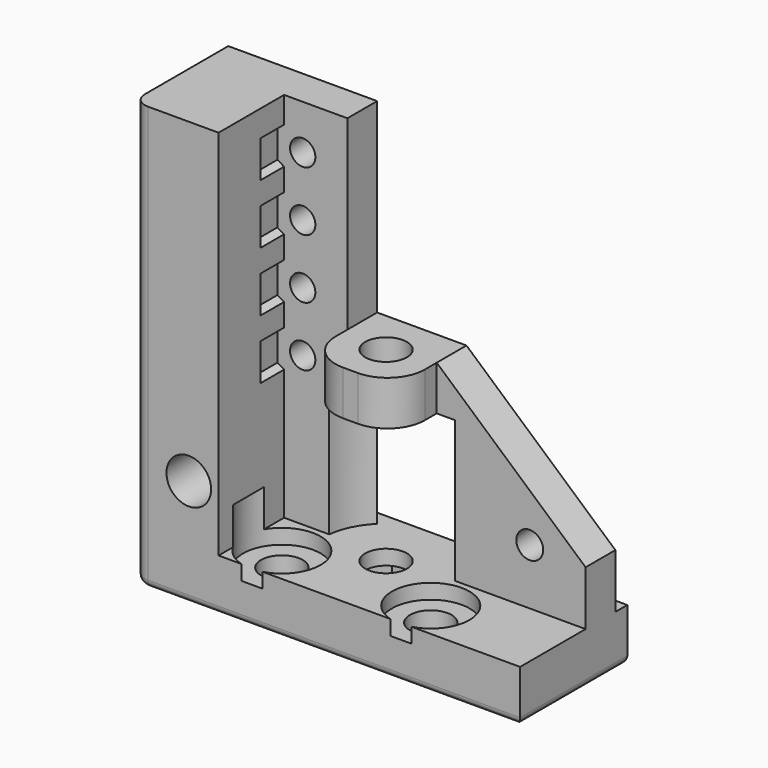
from build123d import *

# Parameters (mm, degrees)
SKETCH_W        = 52
SKETCH_H        = 18
PAD_DEPTH       = 7
SKETCH001_W     = 52
SKETCH001_H     = 5
PAD001_DEPTH    = 50
SKETCH002_R     = 1.8
SKETCH002_W     = 12
SKETCH002_H     = 18
POCKET_DEPTH    = 5
SKETCH003_R     = 2.8
POCKET001_DEPTH = 7.001
SKETCH004_R     = 5.2
POCKET002_DEPTH = 2
SKETCH009_R     = 8.5
POCKET003_DEPTH = 19
POCKET004_DEPTH = 5
SKETCH006_W     = 12
SKETCH006_H     = 6
PAD002_DEPTH    = 7
SKETCH008_R     = 2.8
POCKET005_DEPTH = 32.001
SKETCH012_W     = 11.5
SKETCH012_H     = 50
PAD003_DEPTH    = 11
SKETCH013_R     = 3
POCKET006_DEPTH = 11
SKETCH014_R     = 5.2
POCKET007_DEPTH = 5
SKETCH015_R     = 1.7
POCKET008_DEPTH = 7
SKETCH016_R     = 1.7
SKETCH016_W     = 2.8
SKETCH016_H     = 5.8
POCKET009_DEPTH = 8
FILLET_R        = 5
FILLET001_R     = 2
FILLET002_R     = 1
POCKET010_DEPTH = 4


with BuildPart() as part:
    # Sketch → Pad (new body)
    with BuildSketch(Plane.XY):
        with Locations((0, -7)):
            Rectangle(SKETCH_W, SKETCH_H)
    extrude(amount=PAD_DEPTH)

    # Sketch001 → Pad001 (new body)
    with BuildSketch(Plane.XY.offset(7)):
        with Locations((0, -2.5)):
            Rectangle(SKETCH001_W, SKETCH001_H)
    extrude(amount=PAD001_DEPTH)

    # Sketch002 → Pocket (cut)
    with BuildSketch(Plane.XZ.offset(5)):
        with Locations((-18.5, 14.5)):
            Circle(SKETCH002_R)
        with Locations((18.5, 14.5)):
            Circle(SKETCH002_R)
        with Locations((0, 16)):
            Rectangle(SKETCH002_W, SKETCH002_H)
        Polygon((6, 32), (26.350149, 14), (26.350149, 32), (26.350149, 59.239628), (-6, 59.239628), (-6, 32), align=None)
    extrude(amount=-POCKET_DEPTH, mode=Mode.SUBTRACT)

    # Sketch003 → Pocket001 (cut, through all)
    with BuildSketch(Plane.XY.offset(7)):
        with Locations((0, -6)):
            Circle(SKETCH003_R)
        with Locations((10, -11)):
            Circle(SKETCH003_R)
        with Locations((-10, -11)):
            Circle(SKETCH003_R)
    extrude(amount=-POCKET001_DEPTH, mode=Mode.SUBTRACT)

    # Sketch004 → Pocket002 (cut)
    with BuildSketch(Plane.XY.offset(7)):
        with Locations((-10, -11)):
            Circle(SKETCH004_R)
        with Locations((10, -11)):
            Circle(SKETCH004_R)
    extrude(amount=-POCKET002_DEPTH, mode=Mode.SUBTRACT)

    # Sketch009 → Pocket003 (cut)
    with BuildSketch(Plane.XY.offset(7)):
        with Locations((0, -6)):
            Circle(SKETCH009_R)
    extrude(amount=POCKET003_DEPTH, mode=Mode.SUBTRACT)

    # Sketch005 → Pocket004 (cut)
    with BuildSketch(Plane(origin=(0, 0, 0), x_dir=(1, 0, 0), z_dir=(0, 0, -1))):
        Polygon((4.791368, 5.921741), (2.463458, 10.110317), (-2.32791, 10.188576), (-4.791368, 6.078259), (-2.463458, 1.889683), (2.32791, 1.811424), align=None)
    extrude(amount=-POCKET004_DEPTH, mode=Mode.SUBTRACT)

    # Sketch006 → Pad002 (new body)
    with BuildSketch(Plane.XZ.offset(5)):
        with Locations((0, 29)):
            Rectangle(SKETCH006_W, SKETCH006_H)
    extrude(amount=PAD002_DEPTH)

    # Sketch008 → Pocket005 (cut, through all)
    with BuildSketch(Plane.XY.offset(32)):
        with Locations((0, -6)):
            Circle(SKETCH008_R)
    extrude(amount=-POCKET005_DEPTH, mode=Mode.SUBTRACT)

    # Sketch012 → Pad003 (new body)
    with BuildSketch(Plane.XZ.offset(5)):
        with Locations((-20.25, 32)):
            Rectangle(SKETCH012_W, SKETCH012_H)
    extrude(amount=PAD003_DEPTH)

    # Sketch013 → Pocket006 (cut)
    with BuildSketch(Plane.XZ.offset(16)):
        with Locations((-18.5, 14.5)):
            Circle(SKETCH013_R)
    extrude(amount=-POCKET006_DEPTH, mode=Mode.SUBTRACT)

    # Sketch014 → Pocket007 (cut)
    with BuildSketch(Plane.XY.offset(7)):
        with Locations((-10, -11)):
            Circle(SKETCH014_R)
    extrude(amount=POCKET007_DEPTH, mode=Mode.SUBTRACT)

    # Sketch015 → Pocket008 (cut)
    with BuildSketch(Plane(origin=(-26, 0, 0), x_dir=(0, -1, 0), z_dir=(-1, 0, 0))):
        with Locations((4, 51)):
            Circle(SKETCH015_R)
        with Locations((4, 43)):
            Circle(SKETCH015_R)
        with Locations((4, 35)):
            Circle(SKETCH015_R)
        with Locations((4, 27)):
            Circle(SKETCH015_R)
    extrude(amount=-POCKET008_DEPTH, mode=Mode.SUBTRACT)

    # Sketch016 → Pocket009 (cut)
    with BuildSketch(Plane(origin=(0, 0, 0), x_dir=(-1, 0, 0), z_dir=(0, 1, 0))):
        with Locations((12, 51)):
            Circle(SKETCH016_R)
        with Locations((12, 43)):
            Circle(SKETCH016_R)
        with Locations((12, 35)):
            Circle(SKETCH016_R)
        with Locations((12, 27)):
            Circle(SKETCH016_R)
        with Locations((22.6, 50.981492)):
            Rectangle(SKETCH016_W, SKETCH016_H)
        with Locations((22.6, 42.981492)):
            Rectangle(SKETCH016_W, SKETCH016_H)
        with Locations((22.6, 34.981492)):
            Rectangle(SKETCH016_W, SKETCH016_H)
        with Locations((22.6, 26.981492)):
            Rectangle(SKETCH016_W, SKETCH016_H)
    extrude(amount=-POCKET009_DEPTH, mode=Mode.SUBTRACT)

    # Fillet
    fillet_edges = [part.edges().sort_by_distance(p)[0] for p in [
        (-6, -12, 29),
        (6, -12, 29),
    ]]
    fillet(fillet_edges, radius=FILLET_R)

    # Fillet001
    fillet001_edges = [part.edges().sort_by_distance(p)[0] for p in [
        (-26, -16, 28.5),
    ]]
    fillet(fillet001_edges, radius=FILLET001_R)

    # Fillet002
    fillet002_edges = [part.edges().sort_by_distance(p)[0] for p in [
        (26, -7, 0),
        (1, -16, 0),
        (0, 2, 0),
        (-26, -6, 0),
    ]]
    fillet(fillet002_edges, radius=FILLET002_R)

    # Sketch017 → Pocket010 (cut)
    with BuildSketch(Plane.XZ.offset(5)):
        Polygon((-8.6, 49.037009), (-8.6, 52.962991), (-12, 54.925982), (-15.4, 52.962991), (-15.4, 49.037009), (-12, 47.074018), align=None)
        Polygon((-8.6, 41.037009), (-8.6, 44.962991), (-12, 46.925982), (-15.4, 44.962991), (-15.4, 41.037009), (-12, 39.074018), align=None)
        Polygon((-8.6, 33.037009), (-8.6, 36.962991), (-12, 38.925982), (-15.4, 36.962991), (-15.4, 33.037009), (-12, 31.074018), align=None)
        Polygon((-8.6, 25.037009), (-8.6, 28.962991), (-12, 30.925982), (-15.4, 28.962991), (-15.4, 25.037009), (-12, 23.074018), align=None)
    extrude(amount=POCKET010_DEPTH, mode=Mode.SUBTRACT)


solid = part.part
